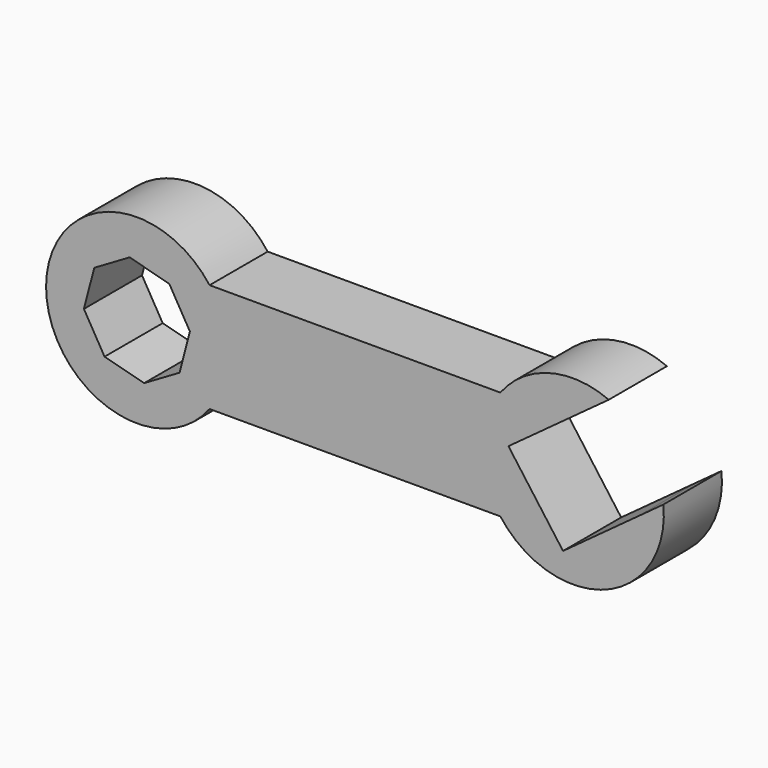
from build123d import *

# Parameters (mm, degrees)
F1_DEPTH = 25.4


with BuildPart() as f1:
    # F0 (on Front) → F1 (new body)
    with BuildSketch(Plane.XZ):
        with BuildLine():
            ThreePointArc((-50.790703, -19.05), (-46.070008, -10.040232), (-44.440703, 0))
            ThreePointArc((-44.440703, 0), (-46.070008, 10.040232), (-50.790703, 19.05))
            ThreePointArc((-50.790703, 19.05), (-107.940703, 0), (-50.790703, -19.05))
        make_face()
        Polygon((-78.729237, 18.529119), (-64.883652, 14.897081), (-57.661583, 2.538535), (-61.293621, -11.307051), (-73.652168, -18.529119), (-87.497754, -14.897081), (-94.719822, -2.538535), (-91.087784, 11.307051), align=None, mode=Mode.SUBTRACT)
        with BuildLine():
            ThreePointArc((-50.790703, 19.05), (-46.070008, 10.040232), (-44.440703, 0))
            ThreePointArc((-44.440703, 0), (-46.070008, -10.040232), (-50.790703, -19.05))
            Line((-50.790703, -19.05), (50.851671, -19.05))
            ThreePointArc((50.851671, -19.05), (44.501671, 0), (50.851671, 19.05))
            Line((50.851671, 19.05), (-50.790703, 19.05))
        make_face()
        with BuildLine():
            ThreePointArc((88.768213, 29.178737), (68.057545, 30.6744), (50.851671, 19.05))
            ThreePointArc((50.851671, 19.05), (44.501671, 0), (50.851671, -19.05))
            ThreePointArc((50.851671, -19.05), (87.767851, -29.587837), (107.846656, 3.133593))
            Line((107.846656, 3.133593), (98.813464, -3.48335))
            Line((98.813464, -3.48335), (72.76832, -22.561793))
            Line((72.76832, -22.561793), (53.689878, 3.48335))
            Line((53.689878, 3.48335), (79.735021, 22.561793))
            Line((79.735021, 22.561793), (88.768213, 29.178737))
        make_face()
    extrude(amount=F1_DEPTH)


solid = f1.part
